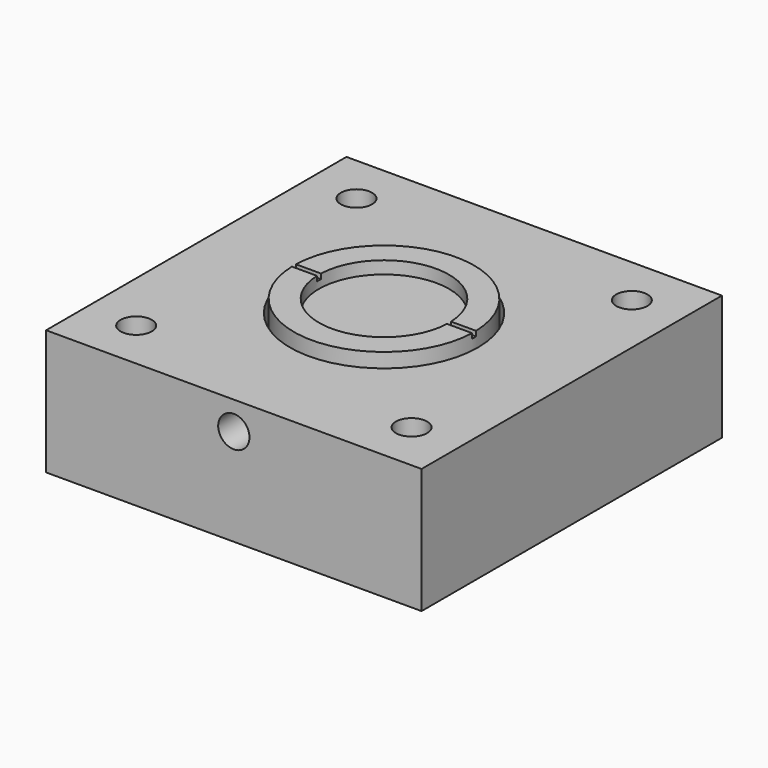
from build123d import *

# Parameters (mm, degrees)
F0_W          = 38.1
F0_H          = 38.1
F1_DEPTH      = 12.7
F3_R          = 10.16
F4_DEPTH      = 6.35
F2_R          = 9.525
F5_DEPTH      = 5.08
F6_R          = 1.5875
F7_DEPTH      = 25.4
F8_R          = 9.144
F9_DEPTH      = 5.08
F9_DEPTH_BACK = 1.27
F10_R         = 6.604
F11_DEPTH     = 1.27
F12_R         = 1.5875
F13_DEPTH     = 11.43
F14_W         = 19.05
F14_H         = 0.508
F15_DEPTH     = 0.508


with BuildPart() as f1:
    # F0 (on Top) → F1 (new body)
    with BuildSketch(Plane.XY):
        Rectangle(F0_W, F0_H)
    extrude(amount=F1_DEPTH)

    # F3 (on face) → F4 (cut)
    with BuildSketch(Plane.XY):
        Circle(F3_R)
    extrude(amount=F4_DEPTH, mode=Mode.SUBTRACT)

    # F2 (on face) → F5 (cut)
    with BuildSketch(Plane.XY.offset(12.7)):
        Circle(F2_R)
    extrude(amount=-F5_DEPTH, mode=Mode.SUBTRACT)

    # F6 (on Top) → F7 (cut)
    with BuildSketch(Plane.XY):
        with Locations((-13.97, -13.97)):
            Circle(F6_R)
        with Locations((13.97, -13.97)):
            Circle(F6_R)
        with Locations((13.97, 13.97)):
            Circle(F6_R)
        with Locations((-13.97, 13.97)):
            Circle(F6_R)
    extrude(amount=F7_DEPTH, mode=Mode.SUBTRACT)


with BuildPart() as f9:
    # F8 (on face) → F9 (new body, two sides)
    with BuildSketch(Plane.XY.offset(12.7)) as f9_sk:
        Circle(F8_R)
    extrude(amount=-F9_DEPTH)
    extrude(f9_sk.sketch, amount=F9_DEPTH_BACK)

    # F10 (on face) → F11 (cut)
    with BuildSketch(Plane.XY.offset(13.97)):
        Circle(F10_R)
    extrude(amount=-F11_DEPTH, mode=Mode.SUBTRACT)


with BuildPart() as f13_tool:
    # F12 (on face) → F13 (new body)
    with BuildSketch(Plane.XZ.offset(19.05)):
        with Locations((0, 9.8425)):
            Circle(F12_R)
    extrude(amount=-F13_DEPTH)


with BuildPart() as f1_1:
    add(f1.part)

    # F13: cut by f13_tool
    add(f13_tool.part, mode=Mode.SUBTRACT)


with BuildPart() as f9_1:
    add(f9.part)

    # F13: cut by f13_tool
    add(f13_tool.part, mode=Mode.SUBTRACT)

    # F14 (on face) → F15 (cut)
    with BuildSketch(Plane.XY.offset(13.97)):
        Rectangle(F14_W, F14_H)
    extrude(amount=-F15_DEPTH, mode=Mode.SUBTRACT)


solid = Compound([f1_1.part, f9_1.part])
